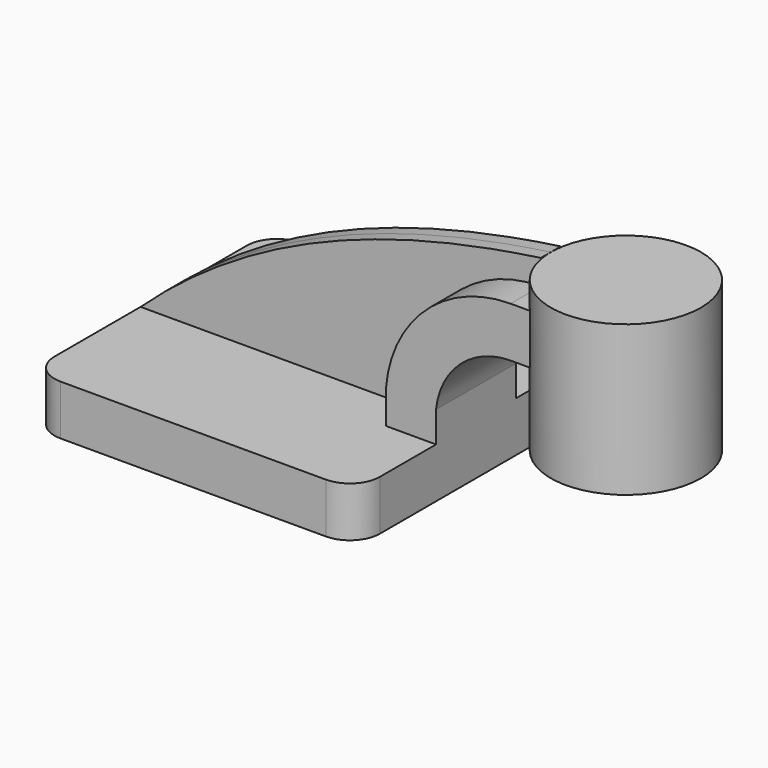
from build123d import *

# Parameters (mm, degrees)
F1_DEPTH = 38.1
F0_W     = 19.05
F0_H     = 12.7
F2_DEPTH = 12.7
F3_DEPTH = 3.175
F5_R     = 7.62
F6_R     = 7.62
F7_R     = 7.62
F8_R     = 7.62


with BuildPart() as f1:
    # F0 (on Front) → F1 (new body, symmetric)
    with BuildSketch(Plane.XZ):
        Polygon((28.575, 6.35), (-41.275, 6.35), (-41.275, -6.35), (41.275, -6.35), (41.275, 6.35), align=None)
    extrude(amount=F1_DEPTH, both=True)

    # F0 (on Front) → F2 (join, symmetric)
    with BuildSketch(Plane.XZ):
        with BuildLine():
            Line((28.575, 14.709284), (28.575, 6.35))
            Line((28.575, 6.35), (41.275, 6.35))
            Line((41.275, 6.35), (41.275, 14.139723))
            ThreePointArc((41.275, 14.139723), (47.463322, 26.330939), (60.224654, 31.237004))
            Line((60.224654, 31.237004), (60.224654, 43.937004))
            ThreePointArc((60.224654, 43.937004), (38.684226, 35.512364), (28.575, 14.709284))
        make_face()
        with Locations((69.749654, 37.587004)):
            Rectangle(F0_W, F0_H)
    extrude(amount=F2_DEPTH, both=True)

    # F0 (on Front) → F3 (join, symmetric)
    with BuildSketch(Plane.XZ):
        with BuildLine():
            add(Edge.make_bspline(
                [(-41.275, 6.35), (-13.110146, 32.443307), (20.942546, 44.724606), (60.224654, 50.287004)],
                knots=[0, 0, 0, 0, 110.601266, 110.601266, 110.601266, 110.601266], degree=3))
            Line((-41.275, 6.35), (28.575, 6.35))
            Line((28.575, 6.35), (28.575, 14.709284))
            ThreePointArc((28.575, 14.709284), (38.684226, 35.512364), (60.224654, 43.937004))
            Line((60.224654, 43.937004), (60.224654, 50.287004))
        make_face()
    extrude(amount=F3_DEPTH, both=True)

    # F5
    f5_edges = [f1.edges().sort_by_distance(p)[0] for p in [
        (41.275, -38.1, 0),
    ]]
    fillet(f5_edges, radius=F5_R)

    # F6
    f6_edges = [f1.edges().sort_by_distance(p)[0] for p in [
        (41.275, 38.1, 0),
    ]]
    fillet(f6_edges, radius=F6_R)

    # F7
    f7_edges = [f1.edges().sort_by_distance(p)[0] for p in [
        (-41.275, 38.1, 0),
    ]]
    fillet(f7_edges, radius=F7_R)

    # F8
    f8_edges = [f1.edges().sort_by_distance(p)[0] for p in [
        (-41.275, -38.1, 0),
    ]]
    fillet(f8_edges, radius=F8_R)


with BuildPart() as f4:
    # F0 (on Front) → F4 (revolve)
    with BuildSketch(Plane.XZ):
        Polygon((98.324654, 50.287004), (79.274654, 50.287004), (79.274654, 43.937004), (79.274654, 31.237004), (79.274654, 12.187004), (98.324654, 12.187004), align=None)
    revolve(axis=Axis((79.274654, 0, 31.237004), (0, 0, -1)))


solid = Compound([f1.part, f4.part])
